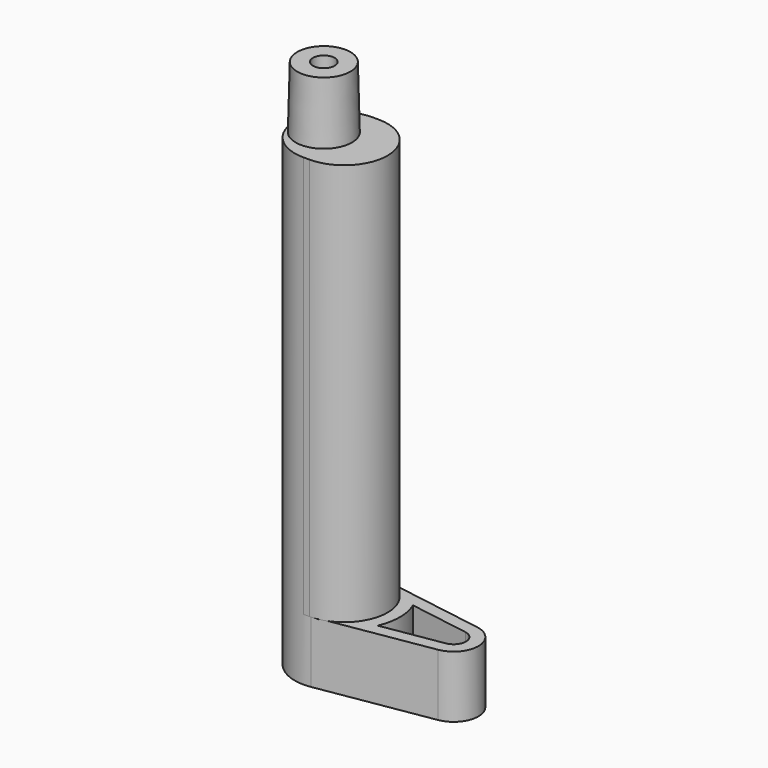
from build123d import *

# Parameters (mm, degrees)
F1_DEPTH  = 12.7
F3_DEPTH  = 82.55
F7_R      = 2.2225
F8_DEPTH  = 107.951
F10_DEPTH = 9.525


with BuildPart() as f1:
    # F0 (on Top) → F1 (new body)
    with BuildSketch(Plane.XY):
        with BuildLine():
            Line((13.9777885884, 5.014068319), (-9.1354904962, 8.7746195582))
            ThreePointArc((-9.1354904962, 8.7746195582), (-19.453128969, 0), (-9.1354904962, -8.7746195582))
            Line((-9.1354904962, -8.7746195582), (13.9777885884, -5.014068319))
            ThreePointArc((13.9777885884, -5.014068319), (18.2419951753, 0), (13.9777885884, 5.014068319))
        make_face()
    extrude(amount=F1_DEPTH)

    # F2 (on face) → F3 (join)
    with BuildSketch(Plane.XY.offset(12.7)):
        with BuildLine():
            Line((-9.293128969, 8.89), (-10.563128969, 8.89))
            ThreePointArc((-10.563128969, 8.89), (-19.453128969, 0), (-10.563128969, -8.89))
            Line((-10.563128969, -8.89), (-9.293128969, -8.89))
            ThreePointArc((-9.293128969, -8.89), (-0.403128969, 0), (-9.293128969, 8.89))
        make_face()
    extrude(amount=F3_DEPTH)

    # F5 (on Front) → F6 (revolve)
    with BuildSketch(Plane.XZ):
        Polygon((-13.484128969, 95.25), (-7.705628969, 95.25), (-8.023128969, 107.95), (-13.484128969, 107.95), align=None)
    revolve(axis=Axis((-13.484128969, 0, 63.5), (0, 0, 1)))

    # F7 (on face) → F8 (cut, through all)
    with BuildSketch(Plane.XY.offset(107.95)):
        with Locations((-13.484128969, 0)):
            Circle(F7_R)
    extrude(amount=-F8_DEPTH, mode=Mode.SUBTRACT)

    # F9 (on face) → F10 (cut)
    with BuildSketch(Plane.XY.offset(12.7)):
        with BuildLine():
            Line((13.5698918818, 2.5070341595), (1.2057433852, 4.5186922103))
            ThreePointArc((1.2057433852, 4.5186922103), (2.136871031, 0), (1.2057433852, -4.5186922103))
            Line((1.2057433852, -4.5186922103), (13.5698918818, -2.5070341595))
            ThreePointArc((13.5698918818, -2.5070341595), (15.7019951753, 0), (13.5698918818, 2.5070341595))
        make_face()
    extrude(amount=-F10_DEPTH, mode=Mode.SUBTRACT)


solid = f1.part
